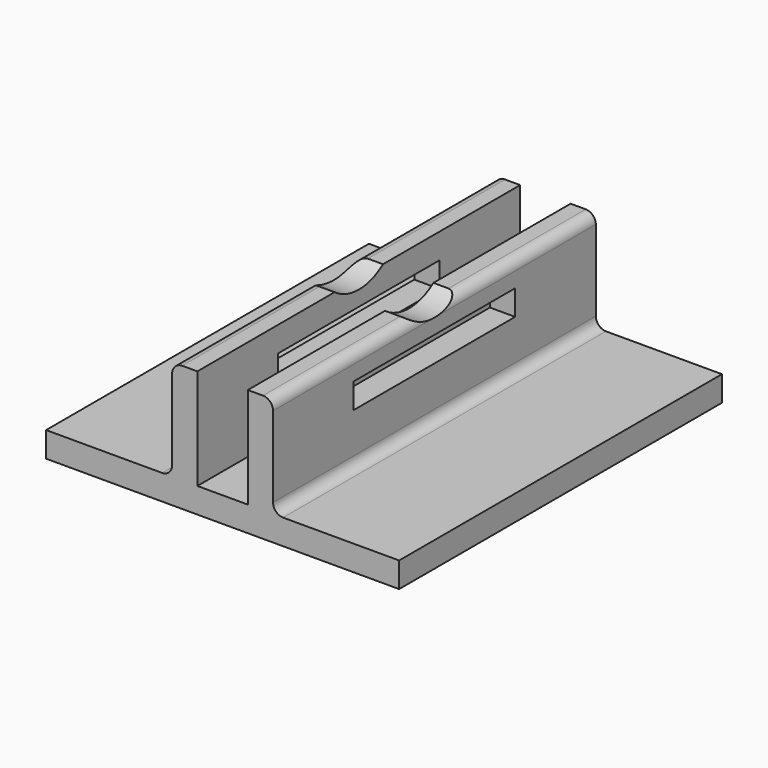
from build123d import *

# Parameters (mm, degrees)
F0_W     = 5
F0_H     = 20
F1_DEPTH = 40
F2_R     = 2
F3_R     = 2
F4_W     = 40
F4_H     = 5
F5_DEPTH = 25
F6_R     = 10
F7_DEPTH = 25


with BuildPart() as f1:
    # F0 (on Front) → F1 (new body, symmetric)
    with BuildSketch(Plane.XZ):
        with Locations((-12.5, 10)):
            Rectangle(F0_W, F0_H)
        Polygon((0, 0), (-10, 0), (-15, 0), (-40, 0), (-40, -5), (0, -5), align=None)
        with Locations((2.5, 10)):
            Rectangle(F0_W, F0_H)
        Polygon((5, 0), (0, 0), (0, -5), (30, -5), (30, 0), align=None)
    extrude(amount=F1_DEPTH, both=True)

    # F2
    f2_edges = [f1.edges().sort_by_distance(p)[0] for p in [
        (5, 0, 0),
        (-15, 0, 0),
    ]]
    fillet(f2_edges, radius=F2_R)

    # F3
    f3_edges = [f1.edges().sort_by_distance(p)[0] for p in [
        (-15, 0, 20),
        (5, 0, 20),
    ]]
    fillet(f3_edges, radius=F3_R)

    # F4 (on face) → F5 (cut)
    with BuildSketch(Plane(origin=(-15, 0, 0), x_dir=(0, -1, 0), z_dir=(-1, 0, 0))):
        with Locations((0, 12.5)):
            Rectangle(F4_W, F4_H)
    extrude(amount=-F5_DEPTH, mode=Mode.SUBTRACT)

    # F6 (on face) → F7 (cut)
    with BuildSketch(Plane.YZ.offset(5)):
        with Locations((0, 28)):
            Circle(F6_R)
    extrude(amount=-F7_DEPTH, mode=Mode.SUBTRACT)


solid = f1.part
